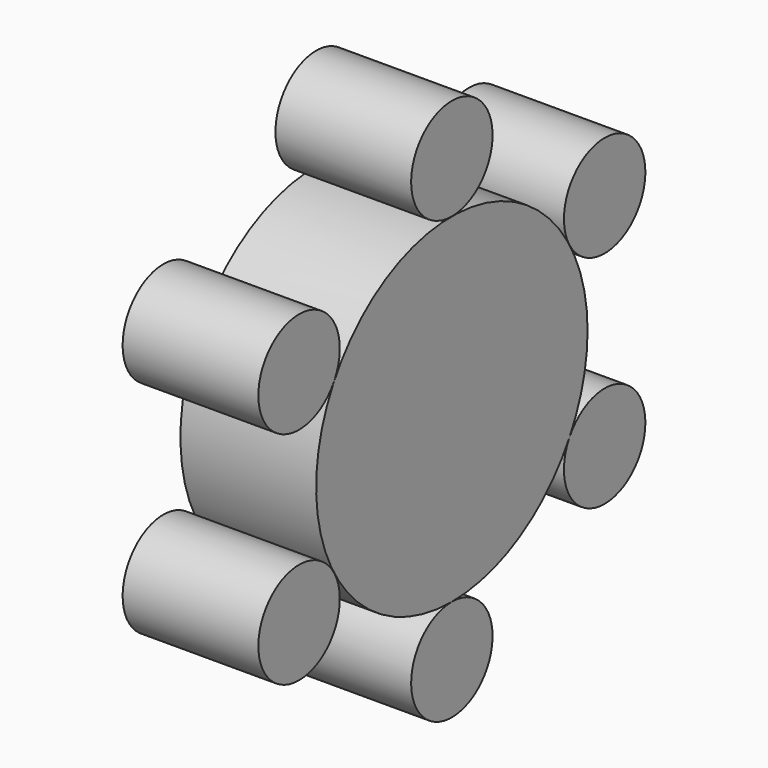
from build123d import *

# Parameters (mm, degrees)
F1_DEPTH = 20
F2_COUNT = 6


with BuildPart() as f1:
    # F0 (on Right) → F1 (new body)
    with BuildSketch(Plane.YZ):
        with BuildLine():
            ThreePointArc((0, -25), (17.6776695297, -17.6776695297), (25, 0))
            ThreePointArc((25, 0), (-17.6776695297, 17.6776695297), (0, -25))
        make_face()
    extrude(amount=F1_DEPTH)


with BuildPart() as f1b:
    # F0 (on Right) → F1, piece 2 (new body)
    with BuildSketch(Plane.YZ):
        with BuildLine():
            ThreePointArc((7.5, -32.5), (5.3033008589, -27.1966991411), (0, -25))
            ThreePointArc((0, -25), (-5.3033008589, -37.8033008589), (7.5, -32.5))
        make_face()
    extrude(amount=F1_DEPTH)


with BuildPart() as f2_1:
    # F2: instance of F1b
    add(f1b.part.rotate(Axis((20, 0, 0), (-1, 0, 0)), 1 * 360 / F2_COUNT))


with BuildPart() as f2_2:
    # F2: instance of F1b
    add(f1b.part.rotate(Axis((20, 0, 0), (-1, 0, 0)), 2 * 360 / F2_COUNT))


with BuildPart() as f2_3:
    # F2: instance of F1b
    add(f1b.part.rotate(Axis((20, 0, 0), (-1, 0, 0)), 3 * 360 / F2_COUNT))


with BuildPart() as f2_4:
    # F2: instance of F1b
    add(f1b.part.rotate(Axis((20, 0, 0), (-1, 0, 0)), 4 * 360 / F2_COUNT))


with BuildPart() as f2_5:
    # F2: instance of F1b
    add(f1b.part.rotate(Axis((20, 0, 0), (-1, 0, 0)), 5 * 360 / F2_COUNT))


solid = Compound([f1.part, f1b.part, f2_1.part, f2_2.part, f2_3.part, f2_4.part, f2_5.part])
